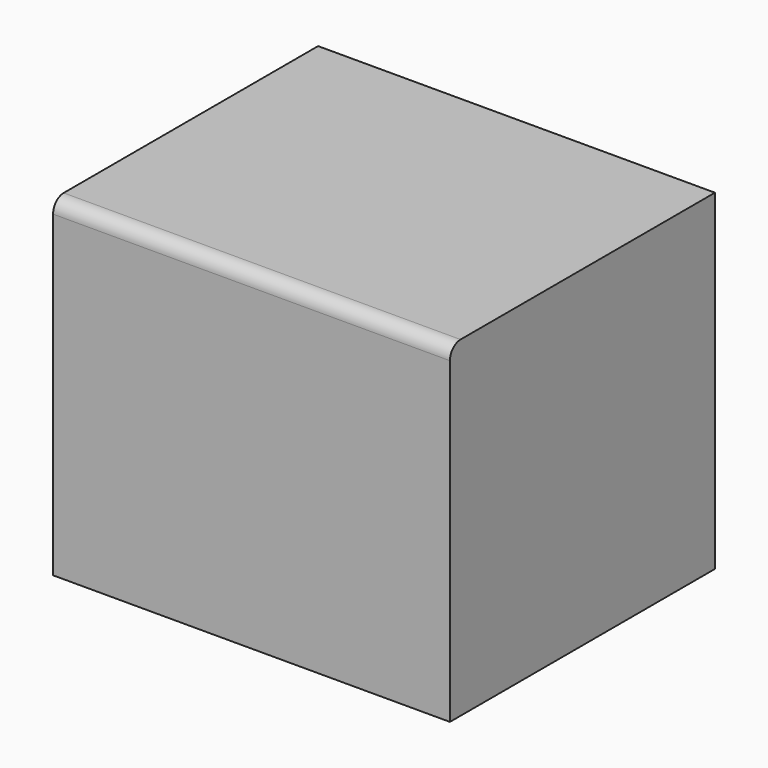
from build123d import *

# Parameters (mm, degrees)
F0_W     = 127
F0_H     = 127
F1_DEPTH = 127
F2_DEPTH = 25.146
F3_R     = 5.08


with BuildPart() as f1:
    # F0 (on Front) → F1 (new body)
    with BuildSketch(Plane.XZ):
        with Locations((5.1937198043, 21.9964998066)):
            Rectangle(F0_W, F0_H)
    extrude(amount=F1_DEPTH)

    # F2 (add): a face of the model
    f2_faces = [f1.faces().sort_by_distance(p)[0] for p in [
        (68.6937198043, -63.5, 21.9964998066),
    ]]
    extrude(f2_faces, amount=F2_DEPTH)

    # F3
    f3_edges = [f1.edges().sort_by_distance(p)[0] for p in [
        (17.76672, -127, 85.4965),
    ]]
    fillet(f3_edges, radius=F3_R)


solid = f1.part
